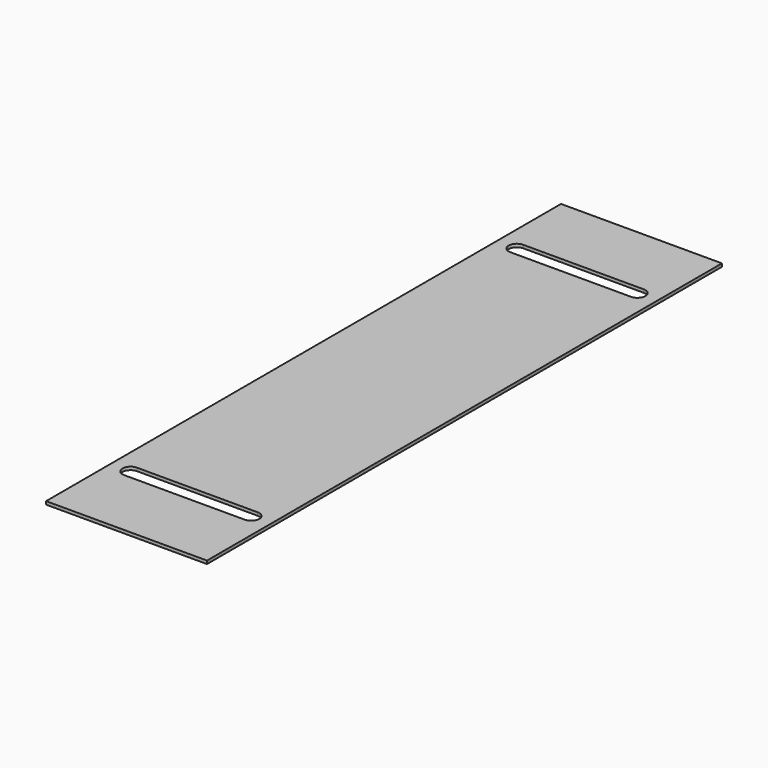
from build123d import *

# Parameters (mm, degrees)
F0_W     = 20
F0_H     = 0.388
F1_DEPTH = 80
F3_DEPTH = 25


with BuildPart() as f1:
    # F0 (on Front) → F1 (new body)
    with BuildSketch(Plane.XZ):
        Rectangle(F0_W, F0_H)
    extrude(amount=F1_DEPTH)

    # F2 (on face) → F3 (cut)
    with BuildSketch(Plane.XY.offset(0.194)):
        with BuildLine():
            ThreePointArc((-7.5, -9), (-8.5, -10), (-7.5, -11))
            Line((-7.5, -11), (7.5, -11))
            ThreePointArc((7.5, -11), (8.5, -10), (7.5, -9))
            Line((7.5, -9), (-7.5, -9))
        make_face()
        with BuildLine():
            ThreePointArc((-7.5, -69), (-8.5, -70), (-7.5, -71))
            Line((-7.5, -71), (7.5, -71))
            ThreePointArc((7.5, -71), (8.5, -70), (7.5, -69))
            Line((7.5, -69), (-7.5, -69))
        make_face()
    extrude(amount=-F3_DEPTH, mode=Mode.SUBTRACT)


solid = f1.part
